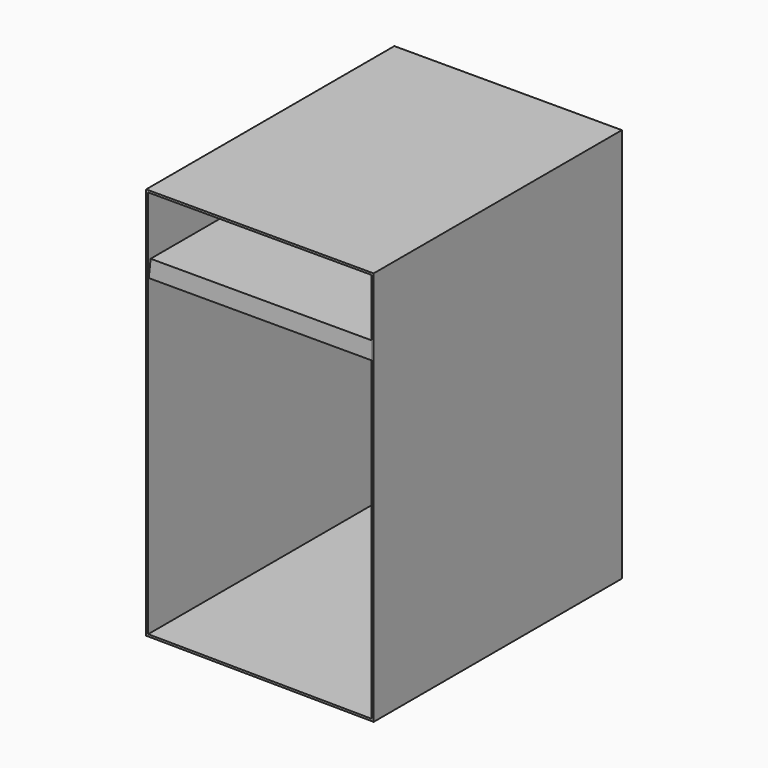
from build123d import *

# Parameters (mm, degrees)
F1_DEPTH = 381
F2_T     = -2.54
F4_DEPTH = 381


with BuildPart() as f1:
    # F0 (on Front) → F1 (new body)
    with BuildSketch(Plane.XZ):
        Polygon((-49.257257, 553.153683), (-49.257257, 70.553683), (230.142743, 68.222205), (230.142743, 553.153683), align=None)
    extrude(amount=F1_DEPTH)

    # F2
    f2_openings = [f1.faces().sort_by_distance(p)[0] for p in [
        (90.554956, -381, 311.270346),
    ]]
    offset(amount=F2_T, openings=f2_openings)

    # F3 (on Front) → F4 (join)
    with BuildSketch(Plane.XZ):
        Polygon((227.298021, 479.927242), (-43.756042, 479.927242), (-46.033807, 458.288461), (227.298021, 458.288461), align=None)
    extrude(amount=F4_DEPTH)


solid = f1.part
